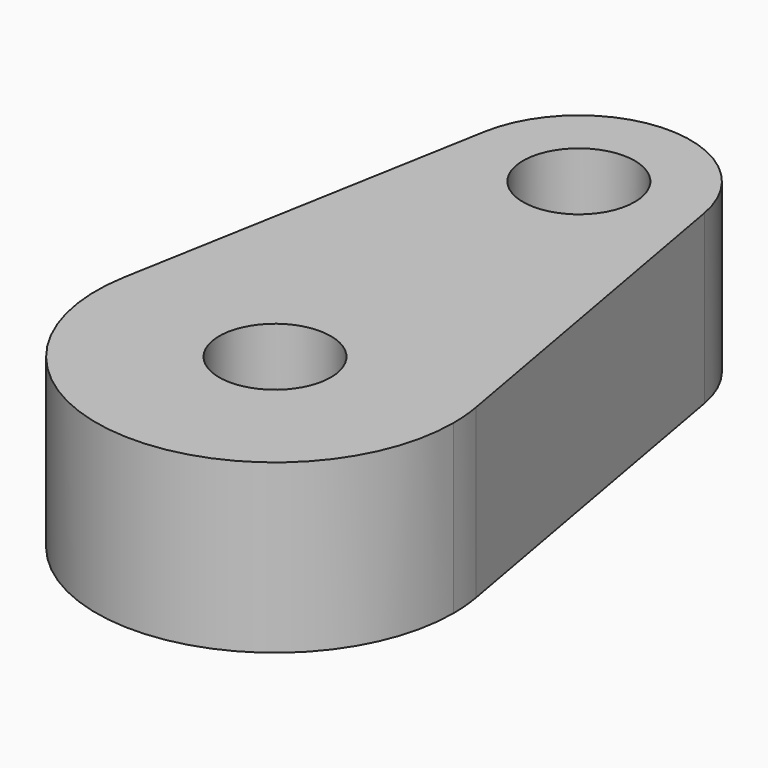
from build123d import *

# Parameters (mm, degrees)
F0_R     = 5
F1_DEPTH = 15


with BuildPart() as f1:
    # F0 (on Top) → F1 (new body)
    with BuildSketch(Plane.XY):
        with BuildLine():
            ThreePointArc((-15.748895, 2.823529), (0, 16), (15.748895, 2.823529))
            Line((15.748895, 2.823529), (9.843059, 35.764706))
            ThreePointArc((9.843059, 35.764706), (9.960688, 34.885835), (10, 34))
            ThreePointArc((10, 34), (-0.885835, 24.039312), (-9.843059, 35.764706))
            Line((-9.843059, 35.764706), (-15.748895, 2.823529))
        make_face()
        with BuildLine():
            ThreePointArc((10, 34), (9.960688, 34.885835), (9.843059, 35.764706))
            ThreePointArc((9.843059, 35.764706), (0, 44), (-9.843059, 35.764706))
            ThreePointArc((-9.843059, 35.764706), (-0.885835, 24.039312), (10, 34))
        make_face()
        with Locations((0, 34)):
            Circle(F0_R, mode=Mode.SUBTRACT)
        with BuildLine():
            ThreePointArc((-15.748895, 2.823529), (-1.417337, -15.9371), (16, 0))
            ThreePointArc((16, 0), (15.9371, 1.417337), (15.748895, 2.823529))
            ThreePointArc((15.748895, 2.823529), (0, 16), (-15.748895, 2.823529))
        make_face()
        Circle(F0_R, mode=Mode.SUBTRACT)
    extrude(amount=F1_DEPTH)


solid = f1.part
